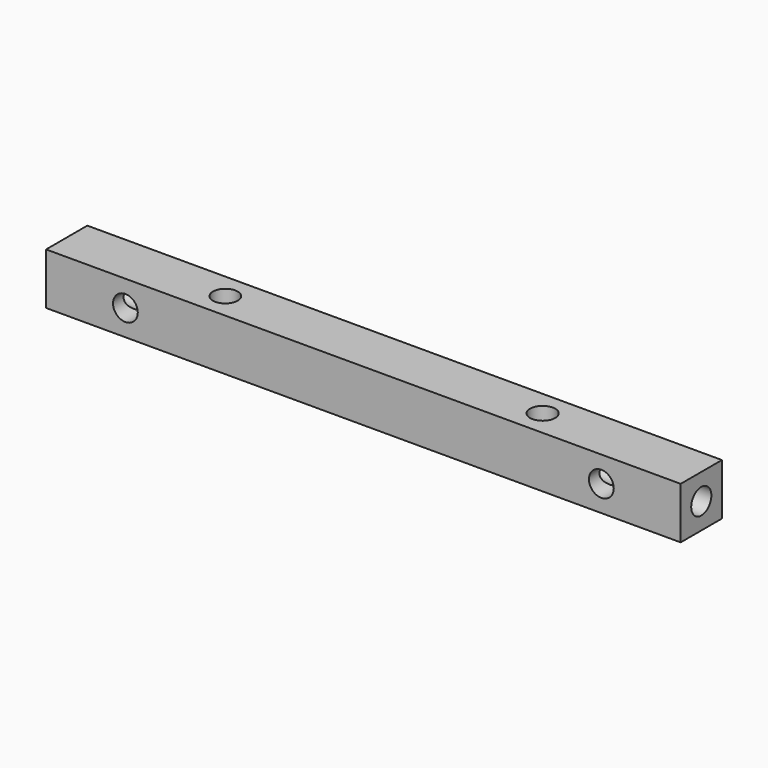
from build123d import *

# Parameters (mm, degrees)
F0_W     = 203.2
F0_H     = 16.51
F0_R     = 3.961937
F0_R_2   = 3.974409
F2_DEPTH = 8.255
F1_R     = 4.036055
F3_DEPTH = 101.6
F4_R     = 3.977079
F4_R_2   = 4.031729
F5_DEPTH = 8.255


with BuildPart() as f2:
    # F0 (on Front) → F2 (new body, symmetric)
    with BuildSketch(Plane.XZ):
        Rectangle(F0_W, F0_H)
        with Locations((-76.2, 0)):
            Circle(F0_R, mode=Mode.SUBTRACT)
        with Locations((76.2, 0)):
            Circle(F0_R_2, mode=Mode.SUBTRACT)
    extrude(amount=F2_DEPTH, both=True)

    # F1 (on Right) → F3 (cut, symmetric)
    with BuildSketch(Plane.YZ):
        Circle(F1_R)
    extrude(amount=F3_DEPTH, both=True, mode=Mode.SUBTRACT)

    # F4 (on Top) → F5 (cut, symmetric)
    with BuildSketch(Plane.XY):
        with Locations((-50.8, 0)):
            Circle(F4_R)
        with Locations((50.8, 0)):
            Circle(F4_R_2)
    extrude(amount=F5_DEPTH, both=True, mode=Mode.SUBTRACT)


solid = f2.part
